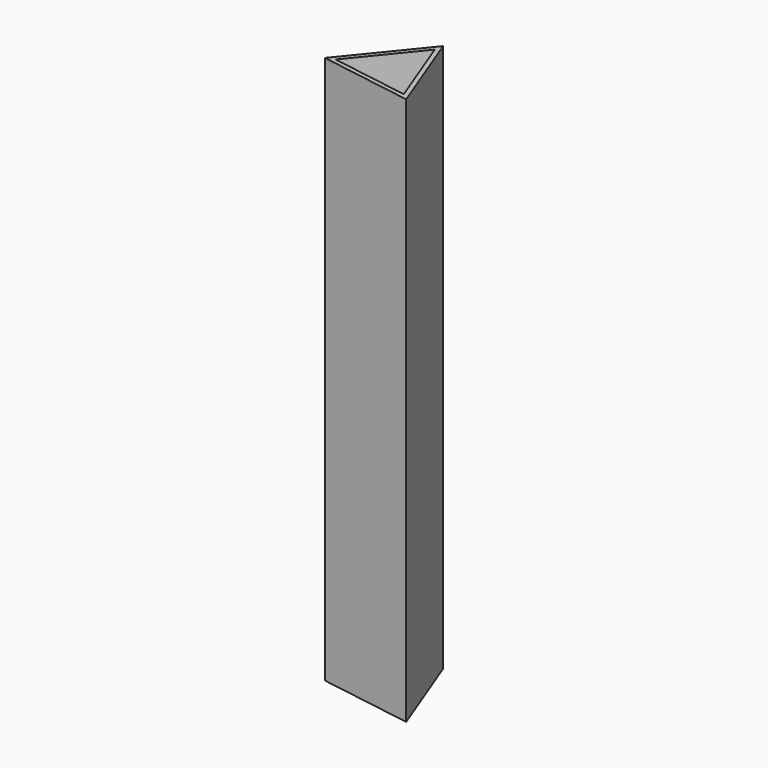
from build123d import *

# Parameters (mm, degrees)
F1_DEPTH = 870
F2_T     = -7


with BuildPart() as f1:
    # F0 (on Top) → F1 (new body)
    with BuildSketch(Plane.XY):
        Polygon((13.739455, 85.505716), (-80.919849, -30.854141), (67.180395, -54.651574), align=None)
    extrude(amount=F1_DEPTH)

    # F2
    f2_openings = [f1.faces().sort_by_distance(p)[0] for p in [
        (0, 0, 870),
    ]]
    offset(amount=F2_T, openings=f2_openings)


solid = f1.part
